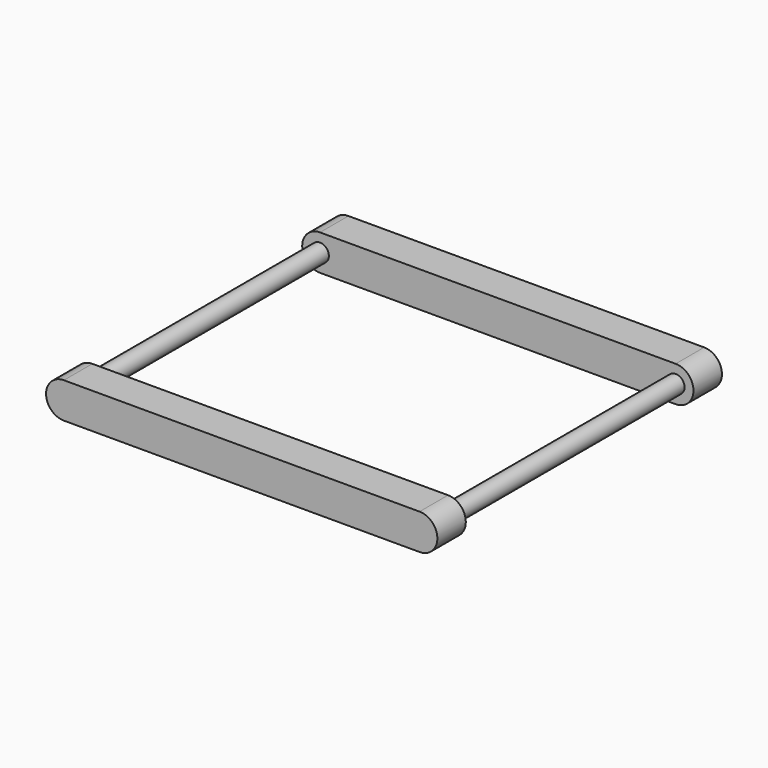
from build123d import *

# Parameters (mm, degrees)
F1_DEPTH = 25.4
F2_R     = 6.35
F3_DEPTH = 203.2
F4_R     = 6.35
F5_DEPTH = 25.4


with BuildPart() as f1:
    # F0 (on Front) → F1 (new body)
    with BuildSketch(Plane.XZ):
        with BuildLine():
            Line((-254, -12.7), (0, -12.7))
            ThreePointArc((0, -12.7), (12.7, 0), (0, 12.7))
            Line((0, 12.7), (-254, 12.7))
            ThreePointArc((-254, 12.7), (-266.7, 0), (-254, -12.7))
        make_face()
    extrude(amount=F1_DEPTH)

    # F2 (on face) → F3 (join)
    with BuildSketch(Plane.XZ.offset(25.4)):
        with Locations((-254, 0)):
            Circle(F2_R)
        Circle(F2_R)
    extrude(amount=F3_DEPTH)

    # F4 (on face) → F5 (join)
    with BuildSketch(Plane.XZ.offset(228.6)):
        with BuildLine():
            Line((0, 12.7), (-254, 12.7))
            ThreePointArc((-254, 12.7), (-266.7, 0), (-254, -12.7))
            Line((-254, -12.7), (0, -12.7))
            ThreePointArc((0, -12.7), (12.7, 0), (0, 12.7))
        make_face()
        with Locations((-254, 0)):
            Circle(F4_R)
    extrude(amount=F5_DEPTH)


solid = f1.part
